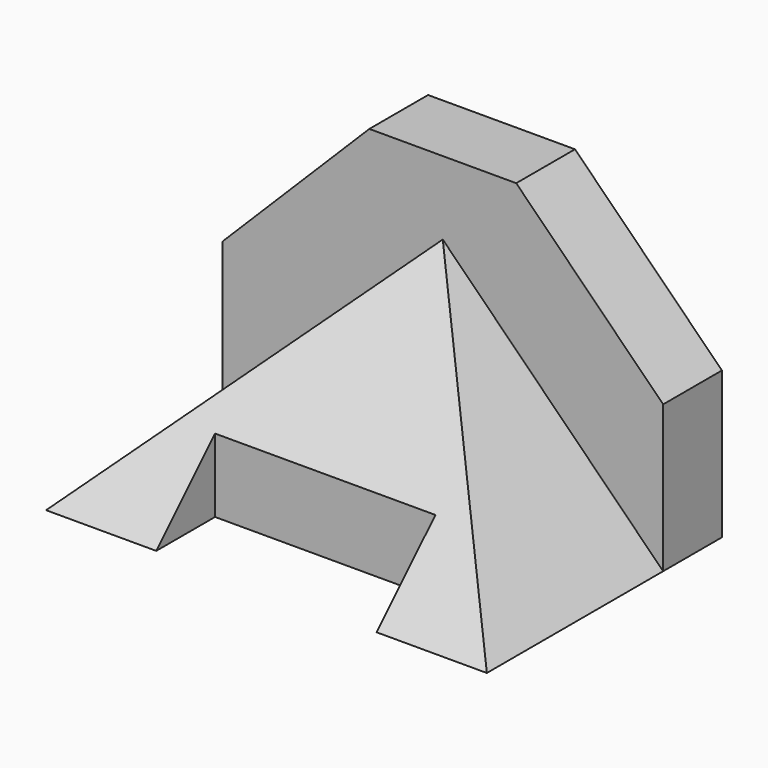
from build123d import *

# Parameters (mm, degrees)
F0_W     = 38.1
F0_H     = 12.7
F1_DEPTH = 50.8
F2_W     = 38.1
F2_H     = 12.7
F3_DEPTH = 12.7
F4_DEPTH = 12.7
F6_DEPTH = 76.201


with BuildPart() as f1:
    # F0 (on Front) → F1 (new body)
    with BuildSketch(Plane.XZ):
        Polygon((38.1, 38.1), (0, 0), (19.05, 0), (19.05, 12.7), (57.15, 12.7), (57.15, 0), (76.2, 0), align=None)
        with Locations((38.1, 6.35)):
            Rectangle(F0_W, F0_H)
    extrude(amount=F1_DEPTH)

    # F2 (on face) → F3 (cut)
    with BuildSketch(Plane.XZ.offset(50.8)):
        with Locations((38.1, 6.35)):
            Rectangle(F2_W, F2_H)
    extrude(amount=-F3_DEPTH, mode=Mode.SUBTRACT)

    # F0 (on Front) → F4 (join)
    with BuildSketch(Plane.XZ):
        Polygon((0, 25.4), (0, 0), (38.1, 38.1), (76.2, 0), (76.2, 25.4), (50.8, 50.8), (25.4, 50.8), align=None)
    extrude(amount=F4_DEPTH)

    # F5 (on Right) → F6 (cut, through all)
    with BuildSketch(Plane.YZ):
        Polygon((-50.8, 38.1), (-50.8, 0), (-12.7, 38.1), align=None)
    extrude(amount=F6_DEPTH, mode=Mode.SUBTRACT)


solid = f1.part
